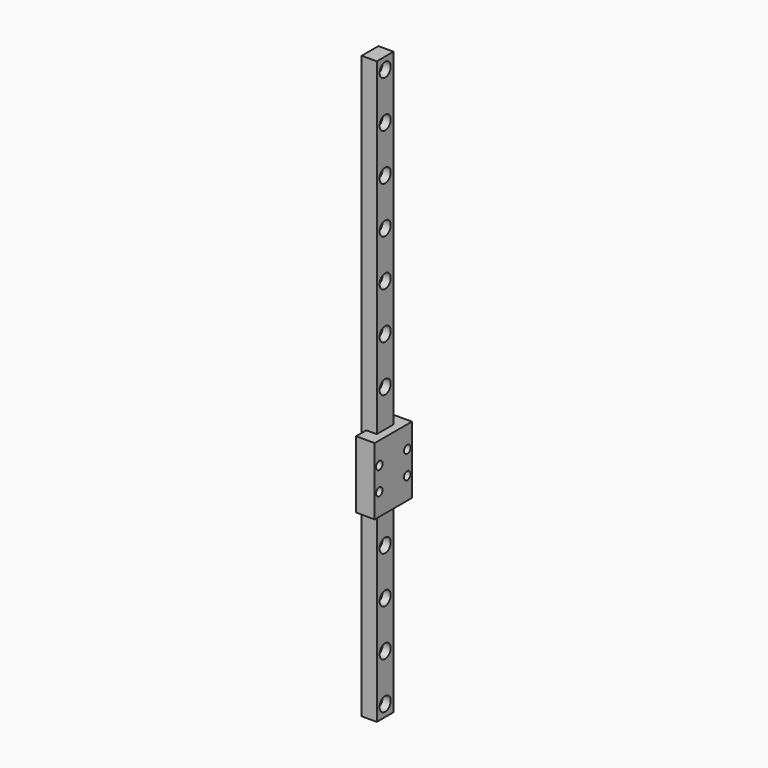
from build123d import *

# Parameters (mm, degrees)
SKETCH042_W             = 9
SKETCH042_H             = 250
PAD021_DEPTH            = 6.5
SKETCH039_R             = 1.75
POCKET017_DEPTH         = 6.5
LINEARPATTERN008_COUNT  = 13
LINEARPATTERN008_PITCH  = 20
SKETCH041_R             = 3
POCKET018_DEPTH         = 3.5
LINEARPATTERN009_COUNT  = 13
LINEARPATTERN009_PITCH  = 20
SKETCH040_W             = 20
SKETCH040_H             = 28.9
SKETCH040_R             = 1.75
PAD022_DEPTH            = 8
BODY009_ROLL_ANGLE      = 90
BODY009_PLACEMENT_ANGLE = 90


with BuildPart() as part:
    # Sketch042 → Pad021 (new body)
    with BuildSketch(Plane.XY):
        with Locations((0, 125)):
            Rectangle(SKETCH042_W, SKETCH042_H)
    extrude(amount=-PAD021_DEPTH)

    # Sketch039 → Pocket017 (cut)
    with BuildSketch(Plane.XY):
        with Locations((0, 5)):
            Circle(SKETCH039_R)
    pocket017 = extrude(amount=-POCKET017_DEPTH, mode=Mode.SUBTRACT)

    # LinearPattern008: Pocket017 ×13
    with Locations(*[(0, i * LINEARPATTERN008_PITCH, 0) for i in range(1, LINEARPATTERN008_COUNT)]):
        add(pocket017, mode=Mode.SUBTRACT)

    # Sketch041 → Pocket018 (cut)
    with BuildSketch(Plane.XY):
        with Locations((0, 5)):
            Circle(SKETCH041_R)
    pocket018 = extrude(amount=-POCKET018_DEPTH, mode=Mode.SUBTRACT)

    # LinearPattern009: Pocket018 ×13
    with Locations(*[(0, i * LINEARPATTERN009_PITCH, 0) for i in range(1, LINEARPATTERN009_COUNT)]):
        add(pocket018, mode=Mode.SUBTRACT)

    # Sketch040 → Pad022 (join)
    with BuildSketch(Plane.XY.offset(-4.5)):
        with Locations((0, 94.45)):
            Rectangle(SKETCH040_W, SKETCH040_H)
        with Locations((-7.5, 99.45)):
            Circle(SKETCH040_R, mode=Mode.SUBTRACT)
        with Locations((7.5, 99.45)):
            Circle(SKETCH040_R, mode=Mode.SUBTRACT)
        with Locations((7.5, 89.45)):
            Circle(SKETCH040_R, mode=Mode.SUBTRACT)
        with Locations((-7.5, 89.45)):
            Circle(SKETCH040_R, mode=Mode.SUBTRACT)
    extrude(amount=PAD022_DEPTH)


with BuildPart() as part_1:
    # Body009 roll: moved
    add(part.part.rotate(Axis((0, 0, 0), (1, 0, 0)), BODY009_ROLL_ANGLE))


with BuildPart() as part_2:
    # Body009 placement: moved
    add(part_1.part.moved(Location((-145, -20, -10.95))).rotate(Axis((-145, -20, -10.95), (0, 0, 1)), BODY009_PLACEMENT_ANGLE))


solid = part_2.part
